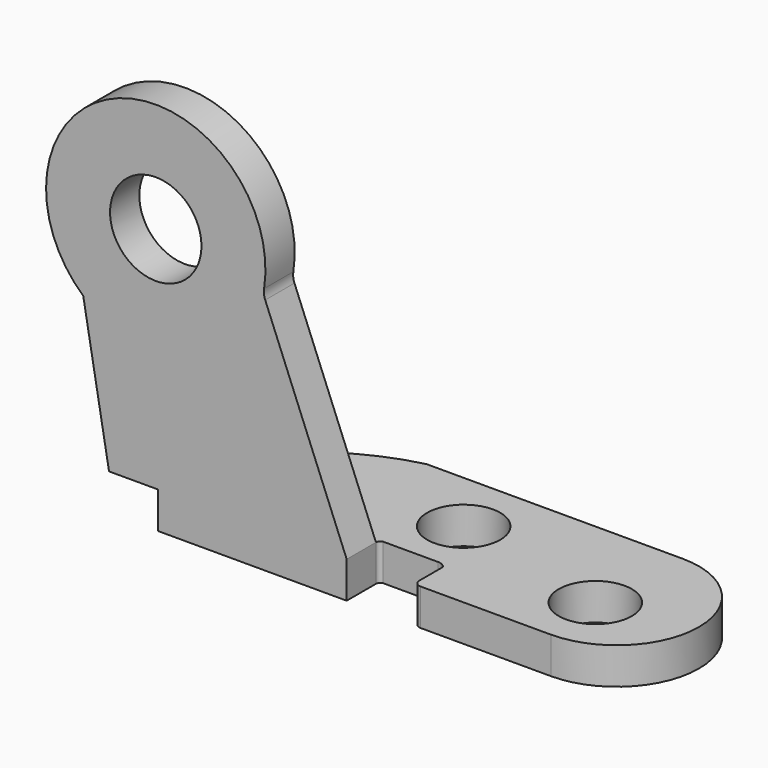
from build123d import *

# Parameters (mm, degrees)
F0_R     = 2.5
F1_DEPTH = 2
F2_R     = 2
F2_W     = 10.330255
F2_H     = 2
F3_DEPTH = 2


with BuildPart() as f1:
    # F0 (on Front) → F1 (new body)
    with BuildSketch(Plane.XZ):
        with BuildLine():
            Line((-1.410429, 9.998943), (0, 2))
            Line((0, 2), (13, 2))
            Line((13, 2), (8.543581, 13.030024))
            ThreePointArc((8.543581, 13.030024), (8.47719, 13.291451), (8.483084, 13.561112))
            ThreePointArc((8.483084, 13.561112), (0.524427, 20.145233), (-1.410429, 9.998943))
        make_face()
        with Locations((2.556998, 14.5)):
            Circle(F0_R, mode=Mode.SUBTRACT)
    extrude(amount=F1_DEPTH)

    # F2 (on Top) → F3 (join)
    with BuildSketch(Plane.XY):
        with BuildLine():
            Line((24.169745, 7), (10.169745, 7))
            ThreePointArc((10.169745, 7), (6.364639, 5.332178), (3.356287, 2.466819))
            ThreePointArc((3.356287, 2.466819), (2.913681, 1.261056), (2.669745, 0))
            Line((2.669745, 0), (13, 0))
            ThreePointArc((13, 0), (13.058373, 0.157252), (13.205214, 0.238328))
            Line((13.205214, 0.238328), (16.205214, 0.238328))
            ThreePointArc((16.205214, 0.238328), (16.462847, 0.175165), (16.662048, 0))
            Line((16.662048, 0), (16.662048, -1.615))
            ThreePointArc((16.662048, -1.615), (16.774812, -1.887236), (17.047048, -2))
            Line((17.047048, -2), (24.169745, -2))
            ThreePointArc((24.169745, -2), (28.669745, 2.5), (24.169745, 7))
        make_face()
        with Locations((23.8, 1.5)):
            Circle(F2_R, mode=Mode.SUBTRACT)
        with Locations((15, 3.5)):
            Circle(F2_R, mode=Mode.SUBTRACT)
        with Locations((7.834872, -1)):
            Rectangle(F2_W, F2_H)
    extrude(amount=F3_DEPTH)


solid = f1.part
